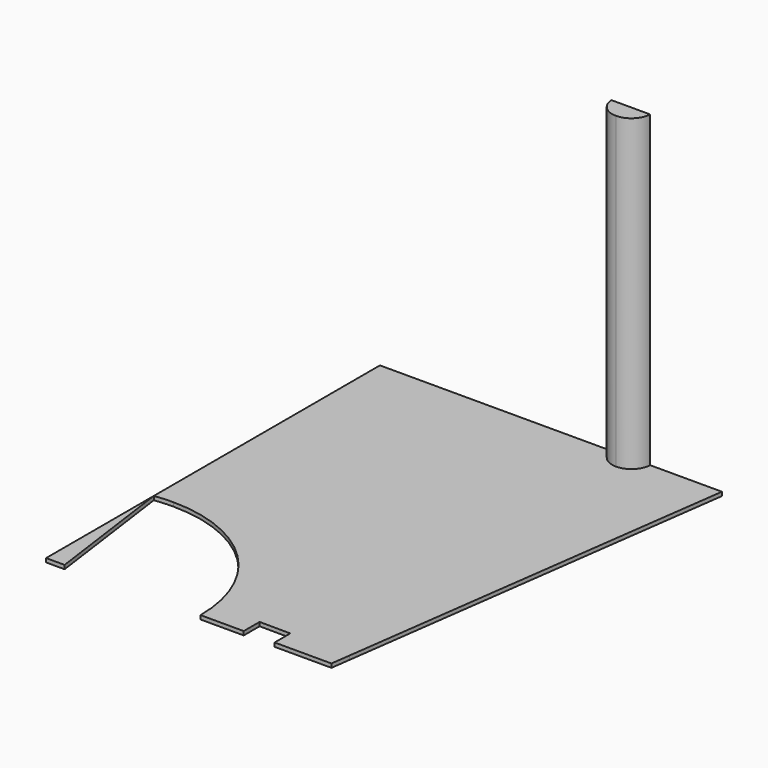
from build123d import *

# Parameters (mm, degrees)
F1_DEPTH = 25
F3_DEPTH = 25.001
F5_DEPTH = 2000


with BuildPart() as f1:
    # F0 (on Top) → F1 (new body)
    with BuildSketch(Plane.XY):
        Polygon((-1128.69109, 1545.861838), (-1128.69109, -1019.138162), (151.30891, -1028.54325), (351.30891, -1030.012795), (736.258567, -1032.8413), (1086.30891, 1545.861838), align=None)
        Polygon((151.30891, -1028.54325), (-1128.69109, -1019.138162), (-1128.69109, -1156.887209), (151.30891, -1156.887209), align=None)
        Polygon((736.258567, -1032.8413), (351.30891, -1030.012795), (351.30891, -1156.887209), (719.419749, -1156.887209), align=None)
    extrude(amount=F1_DEPTH)

    # F2 (on face) → F3 (cut, through all)
    with BuildSketch(Plane.XY.offset(25)):
        with BuildLine():
            Line((-1008.69109, -276.887209), (-1008.69109, -1156.887209))
            Line((-1008.69109, -1156.887209), (-128.69109, -1156.887209))
            ThreePointArc((-128.69109, -1156.887209), (-386.437123, -534.633242), (-1008.69109, -276.887209))
        make_face()
        with BuildLine():
            Line((-1128.69109, -285.107421), (-1008.69109, -1156.887209))
            Line((-1008.69109, -1156.887209), (-1008.69109, -276.887209))
            ThreePointArc((-1008.69109, -276.887209), (-1068.8317, -278.944668), (-1128.69109, -285.107421))
        make_face()
    extrude(amount=-F3_DEPTH, mode=Mode.SUBTRACT)

    # F4 (on face) → F5 (join)
    with BuildSketch(Plane.XY.offset(25)):
        with BuildLine():
            Line((621.30891, 1545.861838), (371.30891, 1545.861838))
            ThreePointArc((371.30891, 1545.861838), (409.670292, 1460.717445), (496.30891, 1425.861838))
            ThreePointArc((496.30891, 1425.861838), (582.947527, 1460.717445), (621.30891, 1545.861838))
        make_face()
    extrude(amount=F5_DEPTH)


solid = f1.part
